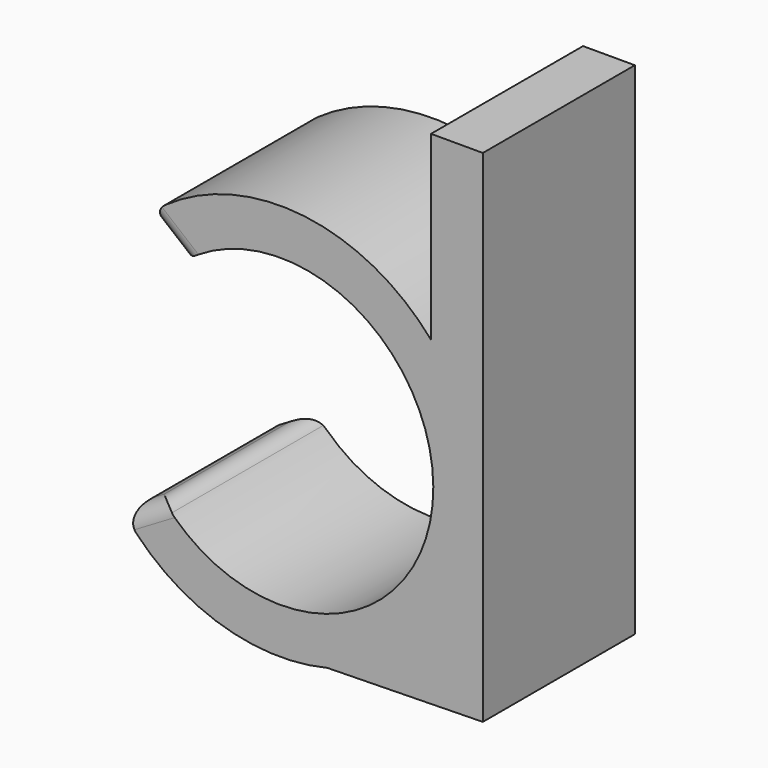
from build123d import *

# Parameters (mm, degrees)
PAD_DEPTH   = 11
FILLET_R    = 1
FILLET001_R = 1


with BuildPart() as part:
    # Sketch → Pad (new body)
    with BuildSketch(Plane.XZ):
        with BuildLine():
            Line((0, 0), (0, 25))
            Line((0, 25), (-3, 25))
            Line((-3, 25), (-3, 14.5))
            ThreePointArc((-3, 14.5), (-10.968465, 18.475561), (-19.386255, 15.569992))
            Line((-17.306046, 13.862505), (-19.386255, 15.569992))
            ThreePointArc((-18.539906, 1.362505), (-2.9106, 6.130653), (-17.306046, 13.862505))
            Line((-18.539906, 1.362505), (-20.841942, 0))
            ThreePointArc((-20.841942, 0), (-15.540935, -3.845903), (-9, -4.174237))
            Line((-9, -4.174237), (0, -4))
            Line((0, 0), (0, -4))
        make_face()
    extrude(amount=PAD_DEPTH)

    # Fillet
    fillet_edges = [part.edges().sort_by_distance(p)[0] for p in [
        (-18.539906, -5.5, 1.362505),
        (-20.841942, -5.5, 0),
        (-19.690924, 0, 0.681253),
        (-19.690924, -11, 0.681253),
    ]]
    fillet(fillet_edges, radius=FILLET_R)

    # Fillet001
    fillet001_edges = [part.edges().sort_by_distance(p)[0] for p in [
        (-17.306046, -5.5, 13.862505),
        (-19.386255, -5.5, 15.569992),
        (-18.346151, 0, 14.716249),
        (-18.346151, -11, 14.716249),
    ]]
    fillet(fillet001_edges, radius=FILLET001_R)


solid = part.part
